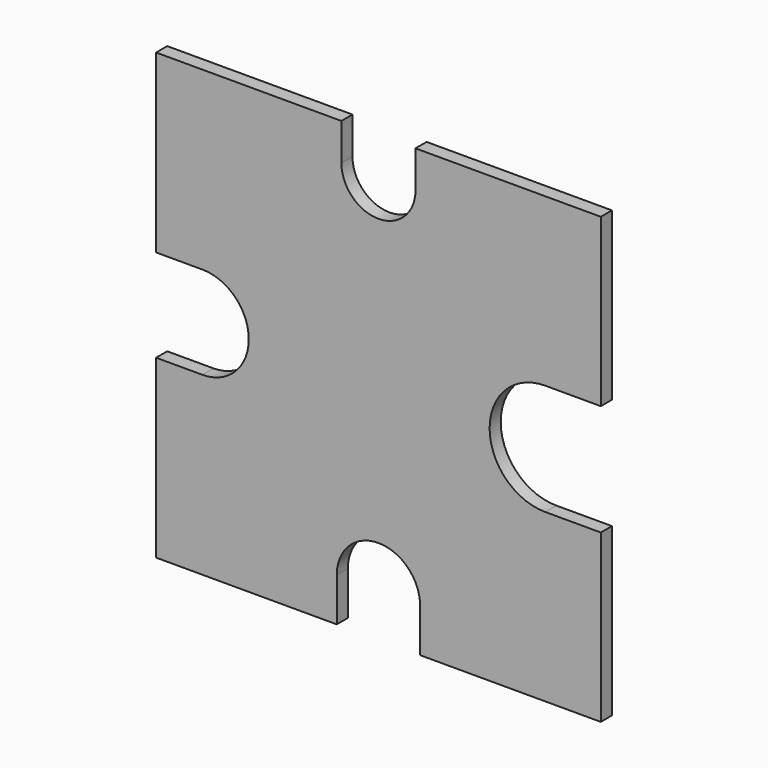
from build123d import *

# Parameters (mm, degrees)
F1_DEPTH = 9.525


with BuildPart() as f1:
    # F0 (on Front) → F1 (new body)
    with BuildSketch(Plane.XZ):
        with BuildLine():
            Line((152.4, 38.1), (152.4, 152.4))
            Line((152.4, 152.4), (25.4, 152.4))
            Line((25.4, 152.4), (25.4, 127))
            ThreePointArc((25.4, 127), (0, 101.6), (-25.4, 127))
            Line((-25.4, 127), (-25.4, 152.4))
            Line((-25.4, 152.4), (-152.4, 152.4))
            Line((-152.4, 152.4), (-152.4, 31.75))
            Line((-152.4, 31.75), (-120.65, 31.75))
            ThreePointArc((-120.65, 31.75), (-88.9, 0), (-120.65, -31.75))
            Line((-120.65, -31.75), (-152.4, -31.75))
            Line((-152.4, -31.75), (-152.4, -152.4))
            Line((-152.4, -152.4), (-28.575, -152.4))
            Line((-28.575, -152.4), (-28.575, -122.555))
            ThreePointArc((-28.575, -122.555), (0, -93.98), (28.575, -122.555))
            Line((28.575, -122.555), (28.575, -152.4))
            Line((28.575, -152.4), (152.4, -152.4))
            Line((152.4, -152.4), (152.4, -38.1))
            Line((152.4, -38.1), (114.3, -38.1))
            ThreePointArc((114.3, -38.1), (76.2, 0), (114.3, 38.1))
            Line((114.3, 38.1), (152.4, 38.1))
        make_face()
    extrude(amount=F1_DEPTH)


solid = f1.part
